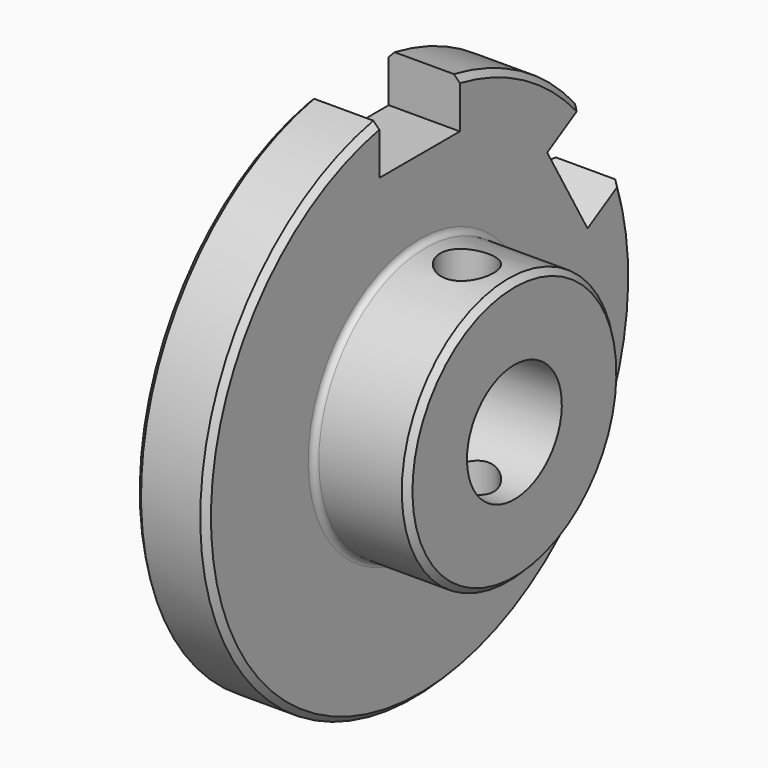
from build123d import *

# Parameters (mm, degrees)
F3_R     = 4.5
F4_DEPTH = 25
F5_W     = 17
F5_H     = 14
F6_DEPTH = 25
F8_DEPTH = 25
F9_SIZE  = 1
F10_R    = 1


with BuildPart() as f2:
    # F0 (on Front) → F2 (revolve)
    with BuildSketch(Plane.XZ):
        Polygon((0, 45), (0, 10), (28, 10), (28, 22.5), (12, 22.5), (12, 45), align=None)
    revolve(axis=Axis((18.0693501607, 0, 0), (1, 0, 0)))

    # F3 (on Top) → F4 (cut, symmetric)
    with BuildSketch(Plane.XY):
        with Locations((20, 0)):
            Circle(F3_R)
    extrude(amount=F4_DEPTH, both=True, mode=Mode.SUBTRACT)

    # F5 (on face) → F6 (cut)
    with BuildSketch(Plane.YZ.offset(12)):
        with Locations((0, 43)):
            Rectangle(F5_W, F5_H)
    extrude(amount=-F6_DEPTH, mode=Mode.SUBTRACT)

    # F7 (on Right) → F8 (cut)
    with BuildSketch(Plane.YZ):
        Polygon((26.9269145362, 25.3612159322), (31.1769145362, 18), (40.5253827808, 23.3973406575), (36.2753827808, 30.7585565897), align=None)
        Polygon((40.5253827808, 23.3973406575), (31.1769145362, 18), (35.4269145362, 10.6387840678), (44.7753827808, 16.0361247254), align=None)
    extrude(amount=F8_DEPTH, mode=Mode.SUBTRACT)

    # F9
    f9_edges = [f2.edges().sort_by_distance(p)[0] for p in [
        (28, 0, -22.5),
        (12, 22.5, 38.971143),
        (0, 22.5, 38.971143),
        (0, -22.5, -38.971143),
        (12, -22.5, -38.971143),
    ]]
    chamfer(f9_edges, length=F9_SIZE)

    # F10
    f10_edges = [f2.edges().sort_by_distance(p)[0] for p in [
        (12, 0, -22.5),
    ]]
    fillet(f10_edges, radius=F10_R)


solid = f2.part
